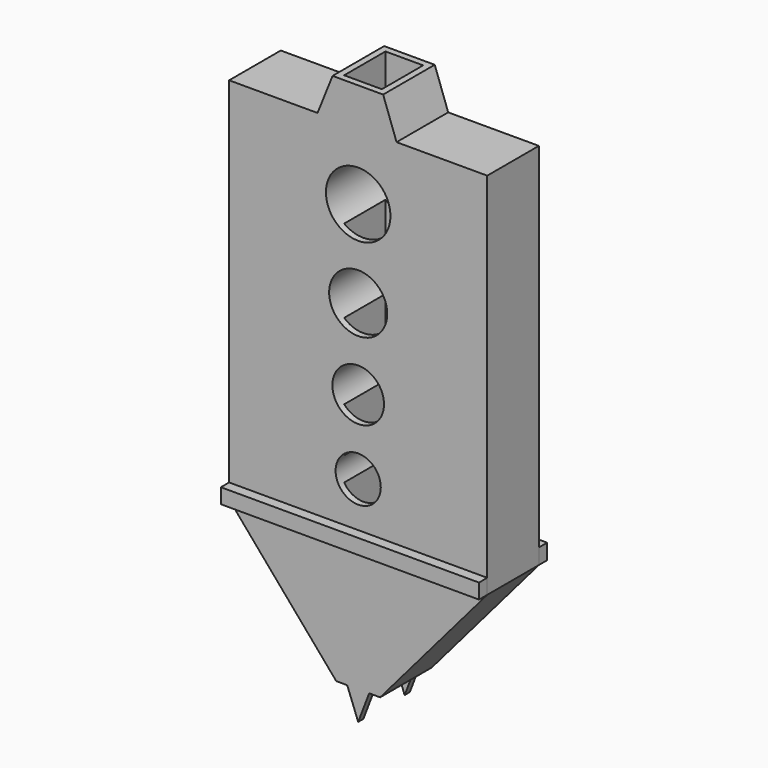
from build123d import *

# Parameters (mm, degrees)
F0_R     = 4.445
F0_R_2   = 5.08
F0_R_3   = 5.715
F0_R_4   = 6.35
F1_DEPTH = 12.7
F2_W     = 7.416808
F2_H     = 10.16
F3_DEPTH = 127
F4_W     = 25.4
F4_H     = 2.950732
F5_DEPTH = 2.032
F6_W     = 25.4
F6_H     = 3.048
F7_DEPTH = 2.032


with BuildPart() as f1:
    # F0 (on Front) → F1 (new body)
    with BuildSketch(Plane.XZ):
        Polygon((-25.4, 0), (0, 0), (25.4, 0), (25.4, 72.62446), (7.551619, 72.62446), (-0.068381, 72.62446), (-8.001001, 72.62446), (-25.4, 72.62446), align=None)
        with Locations((0, 11.799281)):
            Circle(F0_R, mode=Mode.SUBTRACT)
        with Locations((0, 26.404281)):
            Circle(F0_R_2, mode=Mode.SUBTRACT)
        with Locations((0, 42.279281)):
            Circle(F0_R_3, mode=Mode.SUBTRACT)
        with Locations((0, 59.424281)):
            Circle(F0_R_4, mode=Mode.SUBTRACT)
        Polygon((-5.046785, 80.010004), (-8.001001, 72.62446), (-0.068381, 72.62446), (0, 80.010004), align=None)
        Polygon((-0.068381, 72.62446), (7.551619, 72.62446), (4.910023, 80.010004), (0, 80.010004), align=None)
        Polygon((25.4, 0), (0, 0), (-25.4, 0), (-4.318, -24.618464), (-2.159, -24.618464), (0, -24.618464), (2.159, -24.618464), (4.318, -24.618464), align=None)
        Polygon((0, -24.618464), (-2.159, -24.618464), (0, -30.280707), (2.159, -24.618464), align=None)
    extrude(amount=F1_DEPTH)

    # F2 (on face) → F3 (cut)
    with BuildSketch(Plane.XY.offset(80.010004)):
        with Locations((-0.068381, -6.35)):
            Rectangle(F2_W, F2_H)
    extrude(amount=-F3_DEPTH, mode=Mode.SUBTRACT)


with BuildPart() as f5:
    # F4 (on face) → F5 (new body)
    with BuildSketch(Plane.XZ.offset(12.7)):
        with Locations((-12.7, 1.475366)):
            Rectangle(F4_W, F4_H)
        with Locations((12.7, 1.475366)):
            Rectangle(F4_W, F4_H)
    extrude(amount=F5_DEPTH)


with BuildPart() as f7:
    # F6 (on face) → F7 (new body)
    with BuildSketch(Plane(origin=(0, 0, 0), x_dir=(-1, 0, 0), z_dir=(0, 1, 0))):
        with Locations((-12.7, 1.524)):
            Rectangle(F6_W, F6_H)
        with Locations((12.7, 1.524)):
            Rectangle(F6_W, F6_H)
    extrude(amount=F7_DEPTH)


solid = Compound([f1.part, f5.part, f7.part])
